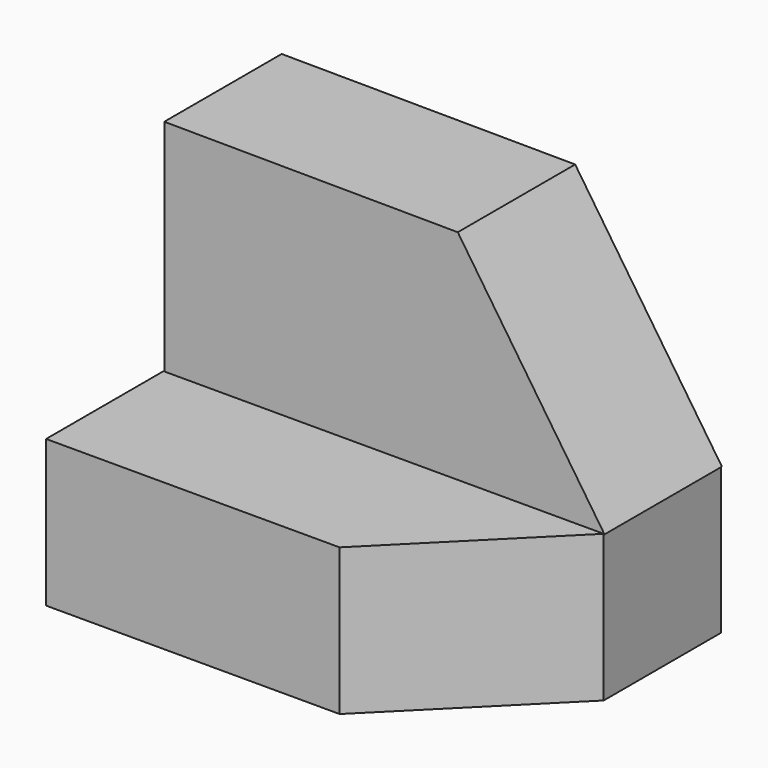
from build123d import *

# Parameters (mm, degrees)
F1_DEPTH = 12.7
F2_W     = 38.1
F2_H     = 12.7
F3_DEPTH = 25.4
F4_SIZE  = 12.7


with BuildPart() as f1:
    # F0 (on Front) → F1 (new body)
    with BuildSketch(Plane.XZ):
        Polygon((0.092203, 35.438168), (-25.3073, 35.59708), (-25.3073, 16.54708), (12.7927, 16.54708), align=None)
    extrude(amount=F1_DEPTH)

    # F2 (on Front) → F3 (join)
    with BuildSketch(Plane.XZ):
        with Locations((-6.326825, 10.218829)):
            Rectangle(F2_W, F2_H)
    extrude(amount=F3_DEPTH)

    # F4
    f4_edges = [f1.edges().sort_by_distance(p)[0] for p in [
        (12.723175, -25.4, 10.218829),
    ]]
    chamfer(f4_edges, length=F4_SIZE)


solid = f1.part
